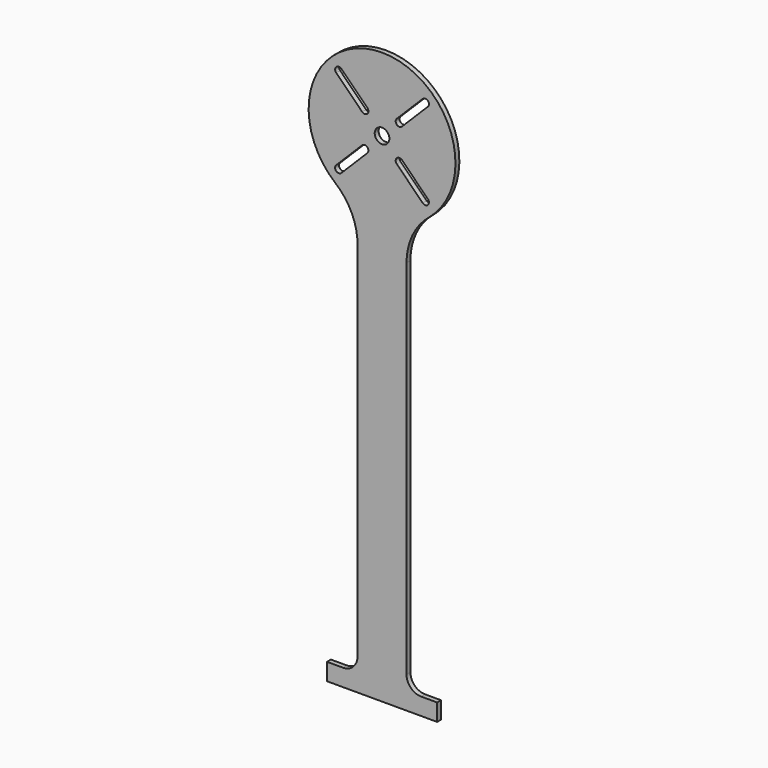
from build123d import *

# Parameters (mm, degrees)
F0_R     = 3
F1_DEPTH = 2


with BuildPart() as f1:
    # F0 (on Front) → F1 (new body)
    with BuildSketch(Plane.XZ):
        with BuildLine():
            ThreePointArc((10, -42.426407), (12.386649, -31.766371), (19.090909, -23.141676))
            ThreePointArc((19.090909, -23.141676), (0, 30), (-19.090909, -23.141676))
            ThreePointArc((-19.090909, -23.141676), (-12.386649, -31.766371), (-10, -42.426407))
            Line((-10, -42.426407), (-10, -190.5))
            ThreePointArc((-10, -190.5), (-11.757359, -194.742641), (-16, -196.5))
            Line((-16, -196.5), (-22.5, -196.5))
            Line((-22.5, -196.5), (-22.5, -203.5))
            Line((-22.5, -203.5), (22.5, -203.5))
            Line((22.5, -203.5), (22.5, -196.5))
            Line((22.5, -196.5), (16, -196.5))
            ThreePointArc((16, -196.5), (11.757359, -194.742641), (10, -190.5))
            Line((10, -190.5), (10, -42.426407))
        make_face()
        with BuildLine():
            Line((-6.010348, -8.131788), (-16.61695, -18.738389))
            ThreePointArc((-16.61695, -18.738389), (-18.73827, -18.738389), (-18.73827, -16.617069))
            Line((-18.73827, -16.617069), (-8.131668, -6.010467))
            ThreePointArc((-8.131668, -6.010467), (-6.010348, -6.010467), (-6.010348, -8.131788))
        make_face(mode=Mode.SUBTRACT)
        with BuildLine():
            ThreePointArc((-18.73827, 16.617069), (-18.73827, 18.738389), (-16.61695, 18.738389))
            Line((-16.61695, 18.738389), (-6.010348, 8.131788))
            ThreePointArc((-6.010348, 8.131788), (-6.010348, 6.010467), (-8.131668, 6.010467))
            Line((-8.131668, 6.010467), (-18.73827, 16.617069))
        make_face(mode=Mode.SUBTRACT)
        Circle(F0_R, mode=Mode.SUBTRACT)
        with BuildLine():
            Line((8.131668, -6.010467), (18.73827, -16.617069))
            ThreePointArc((18.73827, -16.617069), (18.73827, -18.738389), (16.61695, -18.738389))
            Line((16.61695, -18.738389), (6.010348, -8.131788))
            ThreePointArc((6.010348, -8.131788), (6.010348, -6.010467), (8.131668, -6.010467))
        make_face(mode=Mode.SUBTRACT)
        with BuildLine():
            ThreePointArc((16.61695, 18.738389), (18.73827, 18.738389), (18.73827, 16.617069))
            Line((18.73827, 16.617069), (8.131668, 6.010467))
            ThreePointArc((8.131668, 6.010467), (6.010348, 6.010467), (6.010348, 8.131788))
            Line((6.010348, 8.131788), (16.61695, 18.738389))
        make_face(mode=Mode.SUBTRACT)
    extrude(amount=F1_DEPTH)


solid = f1.part
